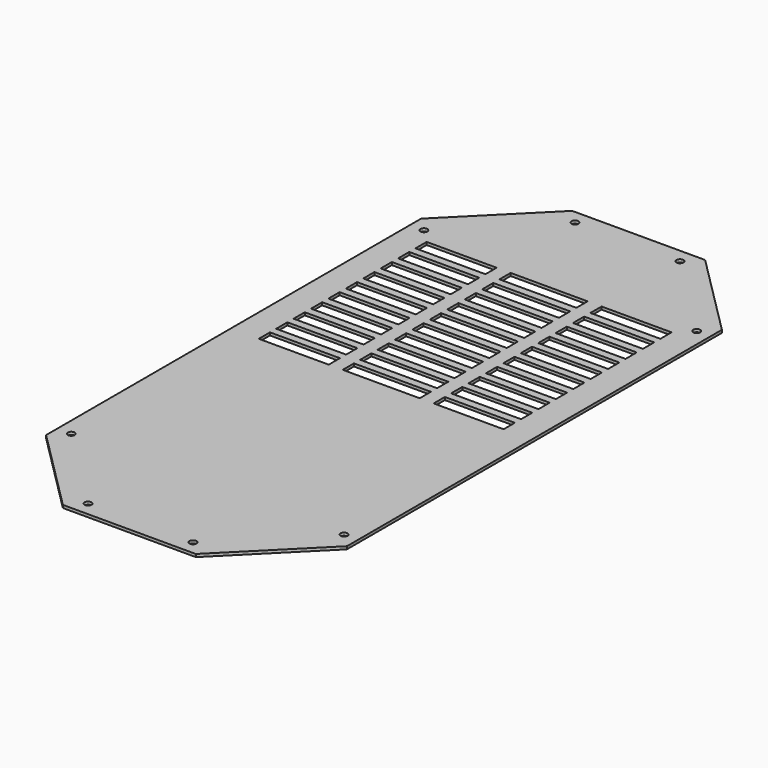
from build123d import *

# Parameters (mm, degrees)
SKETCH_R            = 2.5
PAD_DEPTH           = 2
SKETCH001_W         = 50
SKETCH001_H         = 10
SKETCH001_W_2       = 55
POCKET_DEPTH        = 5
LINEARPATTERN_COUNT = 10
LINEARPATTERN_PITCH = 15.555556


with BuildPart() as part:
    # Sketch → Pad (new body)
    with BuildSketch(Plane.XY):
        Polygon((-47.5, 227.5), (47.5, 227.5), (107.5, 167.5), (107.5, -167.5), (47.5, -227.5), (-47.5, -227.5), (-107.5, -167.5), (-107.5, 167.5), align=None)
        with Locations((-97.5, 157.5)):
            Circle(SKETCH_R, mode=Mode.SUBTRACT)
        with Locations((-37.5, 217.5)):
            Circle(SKETCH_R, mode=Mode.SUBTRACT)
        with Locations((37.5, 217.5)):
            Circle(SKETCH_R, mode=Mode.SUBTRACT)
        with Locations((97.5, 157.5)):
            Circle(SKETCH_R, mode=Mode.SUBTRACT)
        with Locations((97.5, -157.5)):
            Circle(SKETCH_R, mode=Mode.SUBTRACT)
        with Locations((37.5, -217.5)):
            Circle(SKETCH_R, mode=Mode.SUBTRACT)
        with Locations((-37.5, -217.5)):
            Circle(SKETCH_R, mode=Mode.SUBTRACT)
        with Locations((-97.5, -157.5)):
            Circle(SKETCH_R, mode=Mode.SUBTRACT)
    extrude(amount=PAD_DEPTH)

    # Sketch001 → Pocket (cut)
    with BuildSketch(Plane.XY.offset(2)):
        with Locations((-62.5, 142.5)):
            Rectangle(SKETCH001_W, SKETCH001_H)
        with Locations((62.5, 142.5)):
            Rectangle(SKETCH001_W, SKETCH001_H)
        with Locations((0, 142.5)):
            Rectangle(SKETCH001_W_2, SKETCH001_H)
    pocket = extrude(amount=-POCKET_DEPTH, mode=Mode.SUBTRACT)

    # LinearPattern: Pocket ×10
    with Locations(*[(0, -i * LINEARPATTERN_PITCH, 0) for i in range(1, LINEARPATTERN_COUNT)]):
        add(pocket, mode=Mode.SUBTRACT)


solid = part.part
